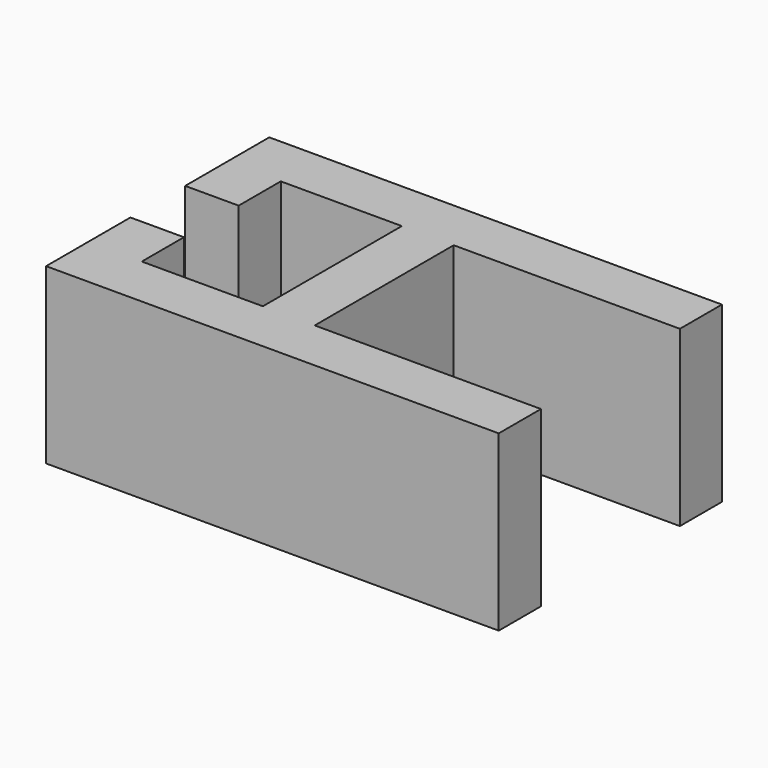
from build123d import *

# Parameters (mm, degrees)
SKETCH_W        = 43
SKETCH_H        = 26.5
PAD_DEPTH       = 16.5
SKETCH001_W     = 21.5
SKETCH001_H     = 16.5
POCKET_DEPTH    = 16.5
SKETCH002_W     = 11.5
SKETCH002_H     = 16.5
POCKET001_DEPTH = 16.5
SKETCH003_W     = 6
SKETCH003_H     = 6.5
POCKET002_DEPTH = 17


with BuildPart() as part:
    # Sketch → Pad (new body)
    with BuildSketch(Plane.XY):
        with Locations((21.5, 13.25)):
            Rectangle(SKETCH_W, SKETCH_H)
    extrude(amount=PAD_DEPTH)

    # Sketch001 (on Face6 of Pad) → Pocket (cut)
    with BuildSketch(Plane.XY.offset(16.5)):
        with Locations((32.26092, 13.261021)):
            Rectangle(SKETCH001_W, SKETCH001_H)
    extrude(amount=-POCKET_DEPTH, mode=Mode.SUBTRACT)

    # Sketch002 (on Face5 of Pocket) → Pocket001 (cut)
    with BuildSketch(Plane.XY.offset(16.5)):
        with Locations((10.83305, 13.263277)):
            Rectangle(SKETCH002_W, SKETCH002_H)
    extrude(amount=-POCKET001_DEPTH, mode=Mode.SUBTRACT)

    # Sketch003 (on Face5 of Pocket001) → Pocket002 (cut)
    with BuildSketch(Plane.XY.offset(16.5)):
        with Locations((3, 13.264382)):
            Rectangle(SKETCH003_W, SKETCH003_H)
    extrude(amount=-POCKET002_DEPTH, mode=Mode.SUBTRACT)


solid = part.part
